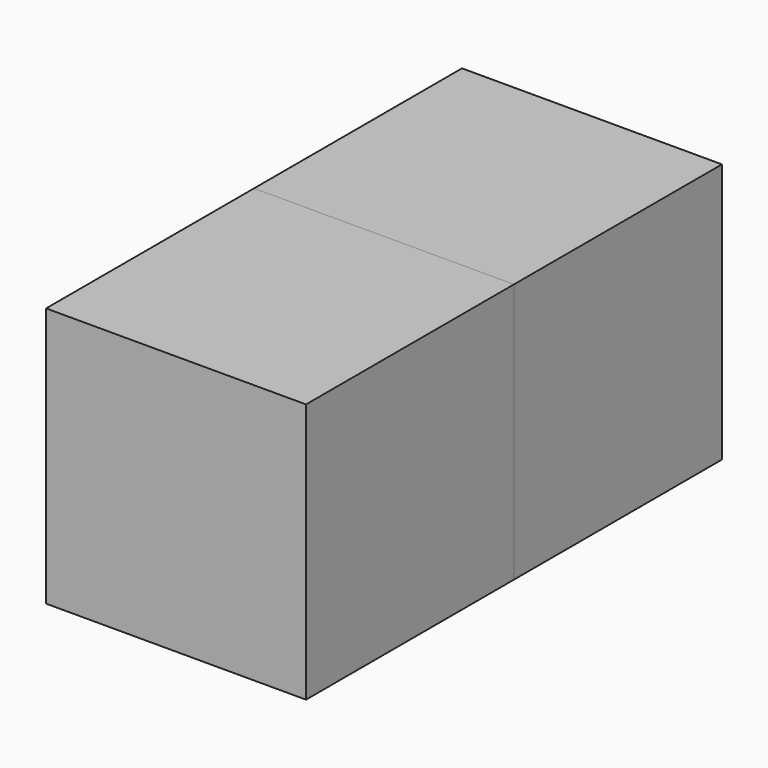
from build123d import *

# Parameters (mm, degrees)
F2_W     = 70
F2_H     = 70
F2_R     = 2
F3_DEPTH = 70
F4_D     = 4.0386
F4_DEPTH = 1.2
F4_TIP   = 1.213317848
F5_W     = 70
F5_H     = 70
F5_R     = 2
F6_DEPTH = 70
F7_D     = 4.0386
F7_DEPTH = 1.2
F7_TIP   = 1.213317848


with BuildPart() as f1:
    # F0 (on Front) → F1 (revolve)
    with BuildSketch(Plane.XZ):
        with BuildLine():
            Line((-2, 0), (2, 0))
            ThreePointArc((2, 0), (0, 2), (-2, 0))
        make_face()
    revolve(axis=Axis((0, 0, 0), (1, 0, 0)))


with BuildPart() as f3:
    # F2 (on Front) → F3 (new body)
    with BuildSketch(Plane.XZ):
        Rectangle(F2_W, F2_H)
        Circle(F2_R, mode=Mode.SUBTRACT)
        Circle(F2_R)
    extrude(amount=F3_DEPTH)

    # F4
    with Locations(Plane(origin=(0, 0, 0), x_dir=(1, 0, 0), z_dir=(0, 1, 0))):
        with Locations((0, 0)):
            Hole(F4_D / 2, depth=F4_DEPTH)
            with Locations((0, 0, -(F4_DEPTH + F4_TIP / 2))):  # 118° drill point
                Cone(0, F4_D / 2, F4_TIP, mode=Mode.SUBTRACT)


with BuildPart() as f6:
    # F5 (on face) → F6 (new body)
    with BuildSketch(Plane.XZ):
        Rectangle(F5_W, F5_H)
        Circle(F5_R, mode=Mode.SUBTRACT)
        Circle(F5_R)
    extrude(amount=-F6_DEPTH)

    # F7
    with Locations(Plane.XZ):
        with Locations((0, 0)):
            Hole(F7_D / 2, depth=F7_DEPTH)
            with Locations((0, 0, -(F7_DEPTH + F7_TIP / 2))):  # 118° drill point
                Cone(0, F7_D / 2, F7_TIP, mode=Mode.SUBTRACT)


solid = Compound([f1.part, f3.part, f6.part])
